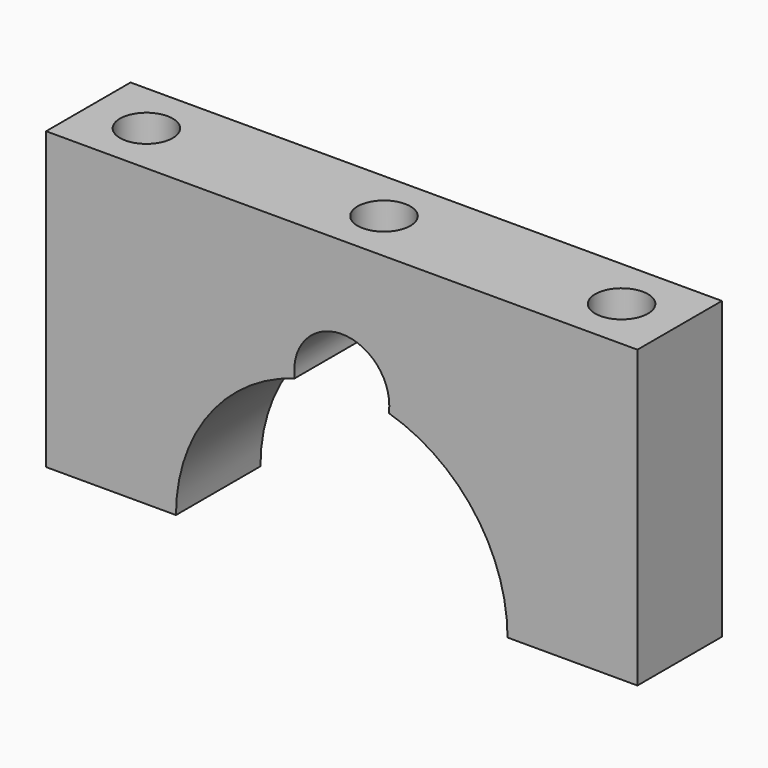
from build123d import *

# Parameters (mm, degrees)
F0_W     = 71.12
F0_H     = 35.56
F1_DEPTH = 12.7
F3_DEPTH = 12.701
F5_DEPTH = 25.4
F7_D     = 6.35
F7_DEPTH = 50.8
F7_TIP   = 1.9077324654


with BuildPart() as f1:
    # F0 (on Front) → F1 (new body)
    with BuildSketch(Plane.XZ):
        Rectangle(F0_W, F0_H)
    extrude(amount=F1_DEPTH)

    # F2 (on face) → F3 (cut, through all)
    with BuildSketch(Plane.XZ.offset(12.7)):
        with BuildLine():
            Line((-19.939, -17.78), (19.939, -17.78))
            ThreePointArc((19.939, -17.78), (0, 2.159), (-19.939, -17.78))
        make_face()
    extrude(amount=-F3_DEPTH, mode=Mode.SUBTRACT)

    # F4 (on face) → F5 (cut)
    with BuildSketch(Plane.XZ.offset(12.7)):
        with BuildLine():
            ThreePointArc((5.656007165, 1.3399713376), (5.7002327123, 1.7484247619), (5.715, 2.159))
            ThreePointArc((5.715, 2.159), (-0.4105752381, 7.8592327123), (-5.656007165, 1.3399713376))
            ThreePointArc((-5.656007165, 1.3399713376), (0, 2.159), (5.656007165, 1.3399713376))
        make_face()
    extrude(amount=-F5_DEPTH, mode=Mode.SUBTRACT)

    # F7
    with Locations(Plane.XY.offset(17.78)):
        with Locations((-28.575, -6.35), (0, -6.35), (28.575, -6.35)):
            Hole(F7_D / 2, depth=F7_DEPTH)
            with Locations((0, 0, -(F7_DEPTH + F7_TIP / 2))):  # 118° drill point
                Cone(0, F7_D / 2, F7_TIP, mode=Mode.SUBTRACT)


solid = f1.part
